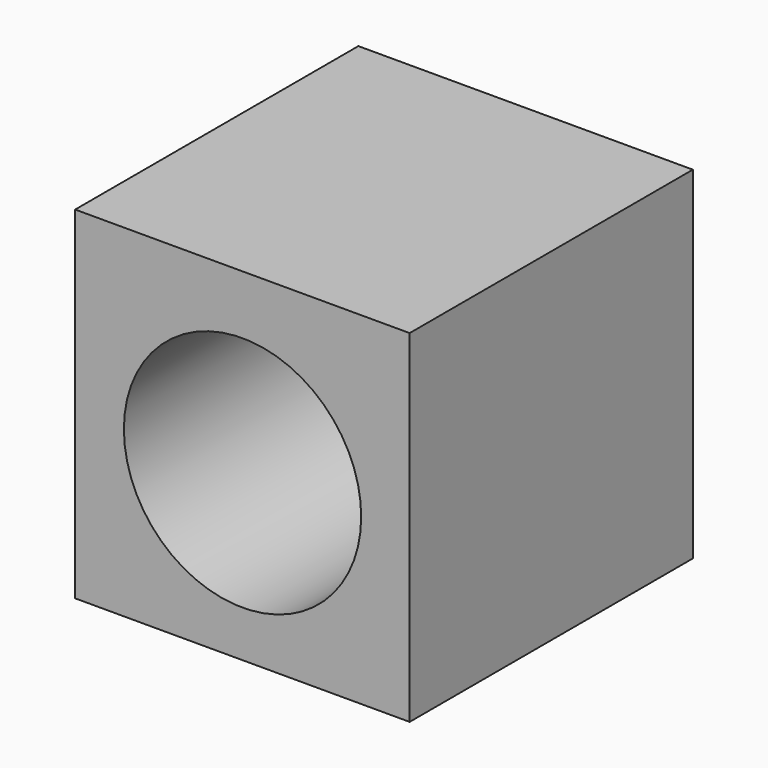
from build123d import *

# Parameters (mm, degrees)
F1_W     = 120.721802
F1_H     = 123.54901
F2_DEPTH = 127.762


with BuildPart() as f2:
    # F1 (on Front) → F2 (new body)
    with BuildSketch(Plane.XZ):
        with Locations((-0.045564, 2.261767)):
            Rectangle(F1_W, F1_H)
        with BuildLine():
            ThreePointArc((-42.824703, 0), (0, 42.824703), (42.824703, 0))
            ThreePointArc((42.824703, 0), (0, -42.824703), (-42.824703, 0))
        make_face(mode=Mode.SUBTRACT)
    extrude(amount=-F2_DEPTH)


solid = f2.part
